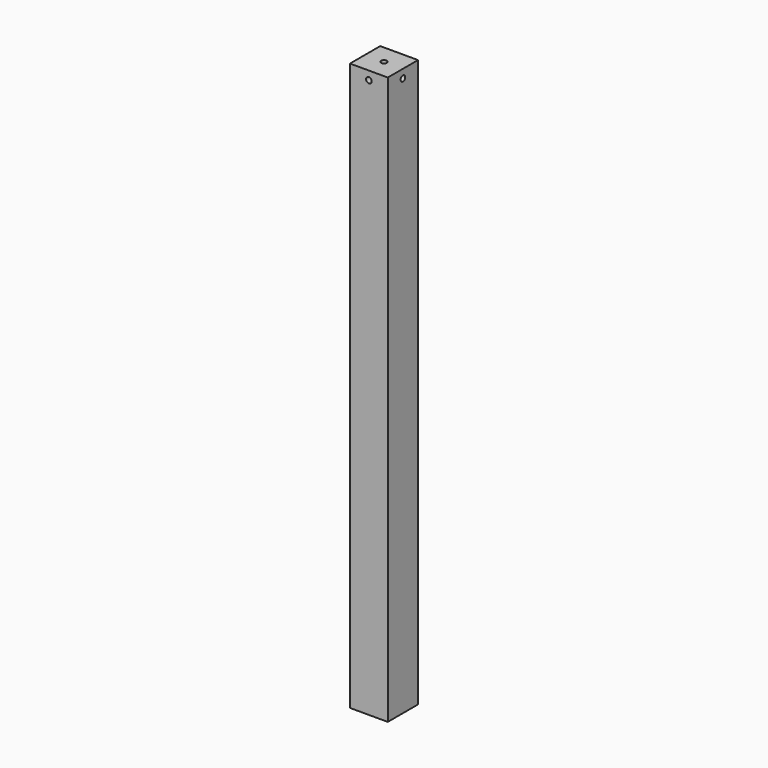
from build123d import *

# Parameters (mm, degrees)
F0_W     = 40
F0_H     = 40
F1_DEPTH = 600
F2_R     = 3
F3_DEPTH = 25
F4_R     = 3
F5_DEPTH = 20
F6_R     = 3
F7_DEPTH = 10


with BuildPart() as f1:
    # F0 (on Top) → F1 (new body)
    with BuildSketch(Plane.XY):
        with Locations((20, 20)):
            Rectangle(F0_W, F0_H)
    extrude(amount=F1_DEPTH)

    # F2 (on face) → F3 (cut)
    with BuildSketch(Plane.XY.offset(600)):
        with Locations((20, 20)):
            Circle(F2_R)
    extrude(amount=-F3_DEPTH, mode=Mode.SUBTRACT)

    # F4 (on face) → F5 (cut)
    with BuildSketch(Plane.XZ):
        with Locations((20, 591)):
            Circle(F4_R)
    extrude(amount=-F5_DEPTH, mode=Mode.SUBTRACT)

    # F6 (on face) → F7 (cut)
    with BuildSketch(Plane.YZ.offset(40)):
        with Locations((20, 591)):
            Circle(F6_R)
    extrude(amount=-F7_DEPTH, mode=Mode.SUBTRACT)


solid = f1.part
